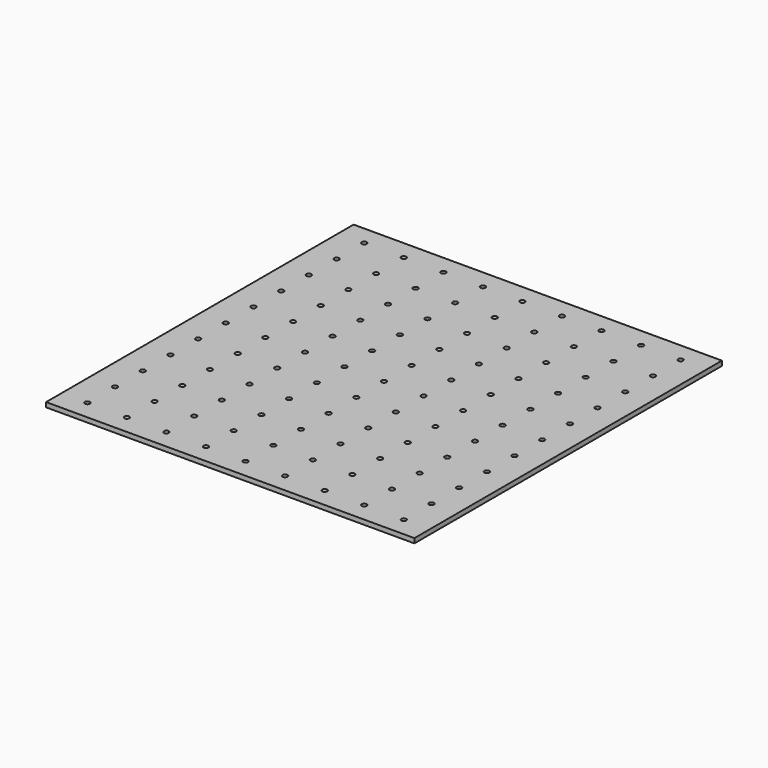
from build123d import *

# Parameters (mm, degrees)
SKETCH_W      = 473.075
SKETCH_H      = 493.7252
SKETCH_R      = 3.175
EXTRUDE_DEPTH = 5.9944


with BuildPart() as part:
    # Sketch → Extrude (new body)
    with BuildSketch(Plane.XY):
        with Locations((288.774186, -99.458199)):
            Rectangle(SKETCH_W, SKETCH_H)
        with Locations((85.586886, 122.791801)):
            Circle(SKETCH_R, mode=Mode.SUBTRACT)
        with Locations((136.386886, 122.791801)):
            Circle(SKETCH_R, mode=Mode.SUBTRACT)
        with Locations((187.186886, 122.791801)):
            Circle(SKETCH_R, mode=Mode.SUBTRACT)
        with Locations((237.986886, 122.791801)):
            Circle(SKETCH_R, mode=Mode.SUBTRACT)
        with Locations((288.786886, 122.791801)):
            Circle(SKETCH_R, mode=Mode.SUBTRACT)
        with Locations((339.586886, 122.791801)):
            Circle(SKETCH_R, mode=Mode.SUBTRACT)
        with Locations((390.386886, 122.791801)):
            Circle(SKETCH_R, mode=Mode.SUBTRACT)
        with Locations((441.186886, 122.791801)):
            Circle(SKETCH_R, mode=Mode.SUBTRACT)
        with Locations((491.986886, 122.791801)):
            Circle(SKETCH_R, mode=Mode.SUBTRACT)
        with Locations((85.586886, 78.341801)):
            Circle(SKETCH_R, mode=Mode.SUBTRACT)
        with Locations((136.386886, 78.341801)):
            Circle(SKETCH_R, mode=Mode.SUBTRACT)
        with Locations((187.186886, 78.341801)):
            Circle(SKETCH_R, mode=Mode.SUBTRACT)
        with Locations((237.986886, 78.341801)):
            Circle(SKETCH_R, mode=Mode.SUBTRACT)
        with Locations((288.786886, 78.341801)):
            Circle(SKETCH_R, mode=Mode.SUBTRACT)
        with Locations((339.586886, 78.341801)):
            Circle(SKETCH_R, mode=Mode.SUBTRACT)
        with Locations((390.386886, 78.341801)):
            Circle(SKETCH_R, mode=Mode.SUBTRACT)
        with Locations((441.186886, 78.341801)):
            Circle(SKETCH_R, mode=Mode.SUBTRACT)
        with Locations((491.986886, 78.341801)):
            Circle(SKETCH_R, mode=Mode.SUBTRACT)
        with Locations((85.586886, 33.891801)):
            Circle(SKETCH_R, mode=Mode.SUBTRACT)
        with Locations((136.386886, 33.891801)):
            Circle(SKETCH_R, mode=Mode.SUBTRACT)
        with Locations((187.186886, 33.891801)):
            Circle(SKETCH_R, mode=Mode.SUBTRACT)
        with Locations((237.986886, 33.891801)):
            Circle(SKETCH_R, mode=Mode.SUBTRACT)
        with Locations((288.786886, 33.891801)):
            Circle(SKETCH_R, mode=Mode.SUBTRACT)
        with Locations((339.586886, 33.891801)):
            Circle(SKETCH_R, mode=Mode.SUBTRACT)
        with Locations((390.386886, 33.891801)):
            Circle(SKETCH_R, mode=Mode.SUBTRACT)
        with Locations((441.186886, 33.891801)):
            Circle(SKETCH_R, mode=Mode.SUBTRACT)
        with Locations((491.986886, 33.891801)):
            Circle(SKETCH_R, mode=Mode.SUBTRACT)
        with Locations((85.586886, -10.558199)):
            Circle(SKETCH_R, mode=Mode.SUBTRACT)
        with Locations((136.386886, -10.558199)):
            Circle(SKETCH_R, mode=Mode.SUBTRACT)
        with Locations((187.186886, -10.558199)):
            Circle(SKETCH_R, mode=Mode.SUBTRACT)
        with Locations((237.986886, -10.558199)):
            Circle(SKETCH_R, mode=Mode.SUBTRACT)
        with Locations((288.786886, -10.558199)):
            Circle(SKETCH_R, mode=Mode.SUBTRACT)
        with Locations((339.586886, -10.558199)):
            Circle(SKETCH_R, mode=Mode.SUBTRACT)
        with Locations((390.386886, -10.558199)):
            Circle(SKETCH_R, mode=Mode.SUBTRACT)
        with Locations((441.186886, -10.558199)):
            Circle(SKETCH_R, mode=Mode.SUBTRACT)
        with Locations((491.986886, -10.558199)):
            Circle(SKETCH_R, mode=Mode.SUBTRACT)
        with Locations((85.586886, -55.008199)):
            Circle(SKETCH_R, mode=Mode.SUBTRACT)
        with Locations((136.386886, -55.008199)):
            Circle(SKETCH_R, mode=Mode.SUBTRACT)
        with Locations((187.186886, -55.008199)):
            Circle(SKETCH_R, mode=Mode.SUBTRACT)
        with Locations((237.986886, -55.008199)):
            Circle(SKETCH_R, mode=Mode.SUBTRACT)
        with Locations((288.786886, -55.008199)):
            Circle(SKETCH_R, mode=Mode.SUBTRACT)
        with Locations((339.586886, -55.008199)):
            Circle(SKETCH_R, mode=Mode.SUBTRACT)
        with Locations((390.386886, -55.008199)):
            Circle(SKETCH_R, mode=Mode.SUBTRACT)
        with Locations((441.186886, -55.008199)):
            Circle(SKETCH_R, mode=Mode.SUBTRACT)
        with Locations((491.986886, -55.008199)):
            Circle(SKETCH_R, mode=Mode.SUBTRACT)
        with Locations((85.586886, -99.458199)):
            Circle(SKETCH_R, mode=Mode.SUBTRACT)
        with Locations((136.386886, -99.458199)):
            Circle(SKETCH_R, mode=Mode.SUBTRACT)
        with Locations((187.186886, -99.458199)):
            Circle(SKETCH_R, mode=Mode.SUBTRACT)
        with Locations((237.986886, -99.458199)):
            Circle(SKETCH_R, mode=Mode.SUBTRACT)
        with Locations((288.786886, -99.458199)):
            Circle(SKETCH_R, mode=Mode.SUBTRACT)
        with Locations((339.586886, -99.458199)):
            Circle(SKETCH_R, mode=Mode.SUBTRACT)
        with Locations((390.386886, -99.458199)):
            Circle(SKETCH_R, mode=Mode.SUBTRACT)
        with Locations((441.186886, -99.458199)):
            Circle(SKETCH_R, mode=Mode.SUBTRACT)
        with Locations((491.986886, -99.458199)):
            Circle(SKETCH_R, mode=Mode.SUBTRACT)
        with Locations((85.586886, -143.908199)):
            Circle(SKETCH_R, mode=Mode.SUBTRACT)
        with Locations((136.386886, -143.908199)):
            Circle(SKETCH_R, mode=Mode.SUBTRACT)
        with Locations((187.186886, -143.908199)):
            Circle(SKETCH_R, mode=Mode.SUBTRACT)
        with Locations((237.986886, -143.908199)):
            Circle(SKETCH_R, mode=Mode.SUBTRACT)
        with Locations((288.786886, -143.908199)):
            Circle(SKETCH_R, mode=Mode.SUBTRACT)
        with Locations((339.586886, -143.908199)):
            Circle(SKETCH_R, mode=Mode.SUBTRACT)
        with Locations((390.386886, -143.908199)):
            Circle(SKETCH_R, mode=Mode.SUBTRACT)
        with Locations((441.186886, -143.908199)):
            Circle(SKETCH_R, mode=Mode.SUBTRACT)
        with Locations((491.986886, -143.908199)):
            Circle(SKETCH_R, mode=Mode.SUBTRACT)
        with Locations((85.586886, -188.358199)):
            Circle(SKETCH_R, mode=Mode.SUBTRACT)
        with Locations((136.386886, -188.358199)):
            Circle(SKETCH_R, mode=Mode.SUBTRACT)
        with Locations((187.186886, -188.358199)):
            Circle(SKETCH_R, mode=Mode.SUBTRACT)
        with Locations((237.986886, -188.358199)):
            Circle(SKETCH_R, mode=Mode.SUBTRACT)
        with Locations((288.786886, -188.358199)):
            Circle(SKETCH_R, mode=Mode.SUBTRACT)
        with Locations((339.586886, -188.358199)):
            Circle(SKETCH_R, mode=Mode.SUBTRACT)
        with Locations((390.386886, -188.358199)):
            Circle(SKETCH_R, mode=Mode.SUBTRACT)
        with Locations((441.186886, -188.358199)):
            Circle(SKETCH_R, mode=Mode.SUBTRACT)
        with Locations((491.986886, -188.358199)):
            Circle(SKETCH_R, mode=Mode.SUBTRACT)
        with Locations((85.586886, -232.808199)):
            Circle(SKETCH_R, mode=Mode.SUBTRACT)
        with Locations((136.386886, -232.808199)):
            Circle(SKETCH_R, mode=Mode.SUBTRACT)
        with Locations((187.186886, -232.808199)):
            Circle(SKETCH_R, mode=Mode.SUBTRACT)
        with Locations((237.986886, -232.808199)):
            Circle(SKETCH_R, mode=Mode.SUBTRACT)
        with Locations((288.786886, -232.808199)):
            Circle(SKETCH_R, mode=Mode.SUBTRACT)
        with Locations((339.586886, -232.808199)):
            Circle(SKETCH_R, mode=Mode.SUBTRACT)
        with Locations((390.386886, -232.808199)):
            Circle(SKETCH_R, mode=Mode.SUBTRACT)
        with Locations((441.186886, -232.808199)):
            Circle(SKETCH_R, mode=Mode.SUBTRACT)
        with Locations((491.986886, -232.808199)):
            Circle(SKETCH_R, mode=Mode.SUBTRACT)
        with Locations((85.586886, -277.258199)):
            Circle(SKETCH_R, mode=Mode.SUBTRACT)
        with Locations((136.386886, -277.258199)):
            Circle(SKETCH_R, mode=Mode.SUBTRACT)
        with Locations((187.186886, -277.258199)):
            Circle(SKETCH_R, mode=Mode.SUBTRACT)
        with Locations((237.986886, -277.258199)):
            Circle(SKETCH_R, mode=Mode.SUBTRACT)
        with Locations((288.786886, -277.258199)):
            Circle(SKETCH_R, mode=Mode.SUBTRACT)
        with Locations((339.586886, -277.258199)):
            Circle(SKETCH_R, mode=Mode.SUBTRACT)
        with Locations((390.386886, -277.258199)):
            Circle(SKETCH_R, mode=Mode.SUBTRACT)
        with Locations((441.186886, -277.258199)):
            Circle(SKETCH_R, mode=Mode.SUBTRACT)
        with Locations((491.986886, -277.258199)):
            Circle(SKETCH_R, mode=Mode.SUBTRACT)
        with Locations((85.586886, -321.708199)):
            Circle(SKETCH_R, mode=Mode.SUBTRACT)
        with Locations((136.386886, -321.708199)):
            Circle(SKETCH_R, mode=Mode.SUBTRACT)
        with Locations((187.186886, -321.708199)):
            Circle(SKETCH_R, mode=Mode.SUBTRACT)
        with Locations((237.986886, -321.708199)):
            Circle(SKETCH_R, mode=Mode.SUBTRACT)
        with Locations((288.786886, -321.708199)):
            Circle(SKETCH_R, mode=Mode.SUBTRACT)
        with Locations((339.586886, -321.708199)):
            Circle(SKETCH_R, mode=Mode.SUBTRACT)
        with Locations((390.386886, -321.708199)):
            Circle(SKETCH_R, mode=Mode.SUBTRACT)
        with Locations((441.186886, -321.708199)):
            Circle(SKETCH_R, mode=Mode.SUBTRACT)
        with Locations((491.986886, -321.708199)):
            Circle(SKETCH_R, mode=Mode.SUBTRACT)
    extrude(amount=EXTRUDE_DEPTH)


solid = part.part
